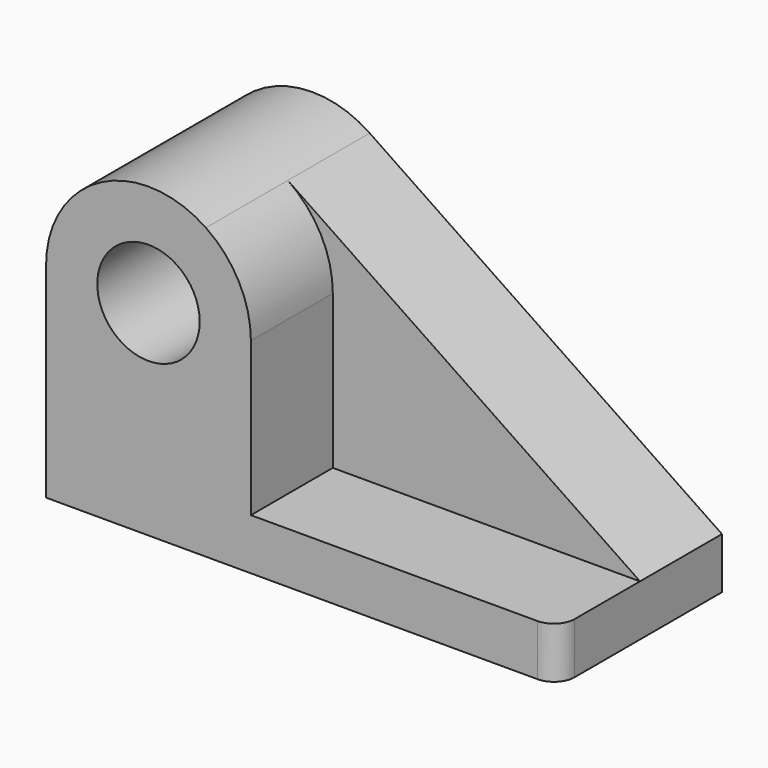
from build123d import *

# Parameters (mm, degrees)
F0_R     = 12.7
F1_DEPTH = 25.4
F2_R     = 12.7
F3_DEPTH = 25.4
F4_R     = 5.08


with BuildPart() as f1:
    # F0 (on Front) → F1 (new body)
    with BuildSketch(Plane.XZ):
        with BuildLine():
            Line((64.615904, 1.363931), (-22.746223, 60.49826))
            ThreePointArc((-22.746223, 60.49826), (-48.890355, 61.900531), (-62.384096, 39.463931))
            Line((-62.384096, 39.463931), (-62.384096, -11.336069))
            Line((-62.384096, -11.336069), (64.615904, -11.336069))
            Line((64.615904, -11.336069), (64.615904, 1.363931))
        make_face()
        with Locations((-36.984096, 39.463931)):
            Circle(F0_R, mode=Mode.SUBTRACT)
    extrude(amount=F1_DEPTH)

    # F2 (on face) → F3 (join)
    with BuildSketch(Plane.XZ.offset(25.4)):
        with BuildLine():
            Line((-11.584096, 1.363931), (-11.584096, 39.463931))
            ThreePointArc((-11.584096, 39.463931), (-14.547496, 51.370191), (-22.746223, 60.49826))
            ThreePointArc((-22.746223, 60.49826), (-48.890355, 61.900531), (-62.384096, 39.463931))
            Line((-62.384096, 39.463931), (-62.384096, 1.363931))
            Line((-62.384096, 1.363931), (-62.384096, -11.336069))
            Line((-62.384096, -11.336069), (64.615904, -11.336069))
            Line((64.615904, -11.336069), (64.615904, 1.363931))
            Line((64.615904, 1.363931), (-11.584096, 1.363931))
        make_face()
        with Locations((-36.984096, 39.463931)):
            Circle(F2_R, mode=Mode.SUBTRACT)
    extrude(amount=F3_DEPTH)

    # F4
    f4_edges = [f1.edges().sort_by_distance(p)[0] for p in [
        (64.615904, -50.8, -4.986069),
    ]]
    fillet(f4_edges, radius=F4_R)


solid = f1.part
